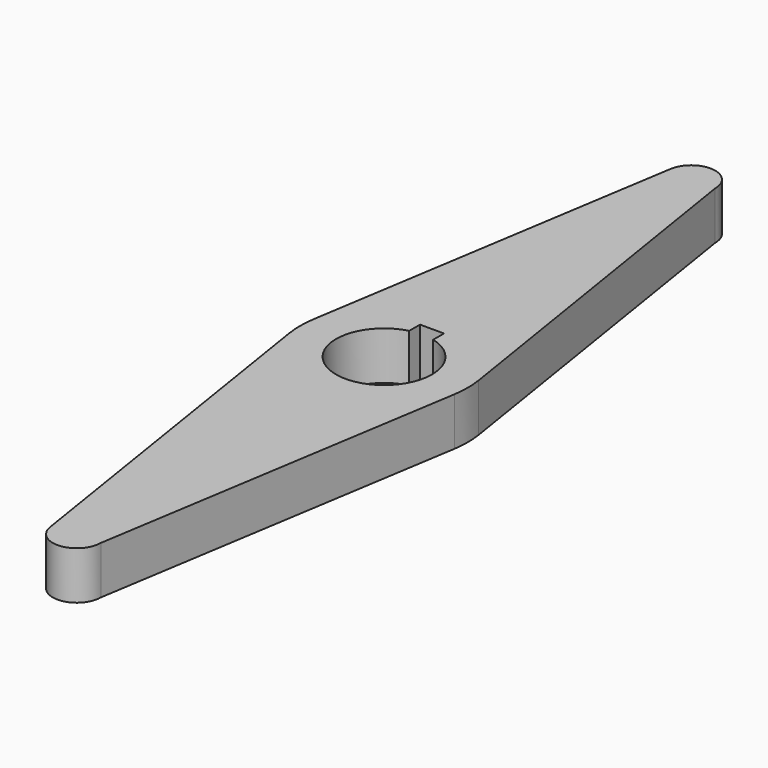
from build123d import *

# Parameters (mm, degrees)
F1_DEPTH = 6.35
F2_R     = 12.7


with BuildPart() as f1:
    # F0 (on Top) → F1 (new body)
    with BuildSketch(Plane.XY):
        with BuildLine():
            ThreePointArc((10.9746446845, -1.744944211), (11.0779825624, -0.875190606), (11.1125, 0))
            ThreePointArc((11.1125, 0), (11.0779825682, 0.8751905326), (10.9746447076, 1.7449440655))
            ThreePointArc((10.9746447076, 1.7449440655), (-0.0043616995, 11.112499144), (-10.9760111207, 1.7363283471))
            ThreePointArc((-10.9760111207, 1.7363283471), (-11.1125, 6.19e-08), (-10.97601114, -1.7363282248))
            ThreePointArc((-10.97601114, -1.7363282248), (-0.004361835, -11.112499144), (10.9746446845, -1.744944211))
        make_face()
        with BuildLine():
            ThreePointArc((1.5875, 6.1483610621), (0, -6.35), (-1.5875, 6.1483610621))
            Line((-1.5875, 6.1483610621), (-1.5875, 7.9365210621))
            Line((-1.5875, 7.9365210621), (1.5875, 7.9365210621))
            Line((1.5875, 7.9365210621), (1.5875, 6.1483610621))
        make_face(mode=Mode.SUBTRACT)
        with BuildLine():
            ThreePointArc((10.9746447076, 1.7449440655), (11.0779825682, 0.8751905326), (11.1125, 0))
            ThreePointArc((11.1125, 0), (11.0779825624, -0.875190606), (10.9746446845, -1.744944211))
            Line((10.9746446845, -1.744944211), (11.2520869302, 0))
            Line((11.2520869302, 0), (10.9746447076, 1.7449440655))
        make_face()
        with BuildLine():
            ThreePointArc((-10.9760111207, 1.7363283471), (-0.0043616995, 11.112499144), (10.9746447076, 1.7449440655))
            Line((10.9746447076, 1.7449440655), (3.175, 50.8))
            ThreePointArc((3.175, 50.8), (-0.2488120577, 47.6347642173), (-3.1360031874, 51.29609375))
            Line((-3.1360031874, 51.29609375), (-10.9760111207, 1.7363283471))
        make_face()
        with BuildLine():
            Line((3.175, -50.8), (10.9746446845, -1.744944211))
            ThreePointArc((10.9746446845, -1.744944211), (-0.004361835, -11.112499144), (-10.97601114, -1.7363282248))
            Line((-10.97601114, -1.7363282248), (-3.1360031874, -51.29609375))
            ThreePointArc((-3.1360031874, -51.29609375), (-0.2488120577, -47.6347642173), (3.175, -50.8))
        make_face()
        with BuildLine():
            ThreePointArc((-10.97601114, -1.7363282248), (-11.1125, 6.19e-08), (-10.9760111207, 1.7363283471))
            Line((-10.9760111207, 1.7363283471), (-11.2506861097, 0))
            Line((-11.2506861097, 0), (-10.97601114, -1.7363282248))
        make_face()
        with BuildLine():
            ThreePointArc((-3.1360031874, 51.29609375), (-0.2488120577, 47.6347642173), (3.175, 50.8))
            ThreePointArc((3.175, 50.8), (0.2488120577, 53.9652357827), (-3.1360031874, 51.29609375))
        make_face()
        with BuildLine():
            ThreePointArc((-3.1360031874, -51.29609375), (0.2488120577, -53.9652357827), (3.175, -50.8))
            ThreePointArc((3.175, -50.8), (-0.2488120577, -47.6347642173), (-3.1360031874, -51.29609375))
        make_face()
    extrude(amount=F1_DEPTH)

    # F2
    f2_edges = [f1.edges().sort_by_distance(p)[0] for p in [
        (-11.250686, 0, 3.175),
        (11.252087, 0, 3.175),
    ]]
    fillet(f2_edges, radius=F2_R)


solid = f1.part
